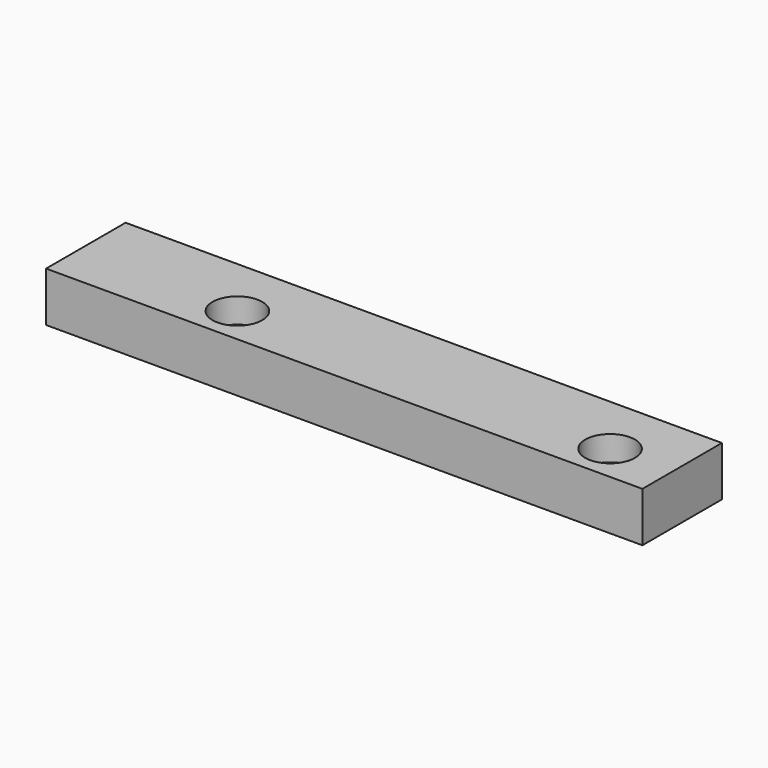
from build123d import *

# Parameters (mm, degrees)
F0_W     = 240
F0_H     = 40
F1_DEPTH = 10
F2_R     = 10
F3_DEPTH = 10


with BuildPart() as f1:
    # F0 (on Top) → F1 (new body, symmetric)
    with BuildSketch(Plane.XY):
        Rectangle(F0_W, F0_H)
    extrude(amount=F1_DEPTH, both=True)

    # F2 (on face) → F3 (cut)
    with BuildSketch(Plane.XY.offset(10)):
        with Locations((-55, -5)):
            Circle(F2_R)
        with Locations((95, -5)):
            Circle(F2_R)
    extrude(amount=-F3_DEPTH, mode=Mode.SUBTRACT)


solid = f1.part
